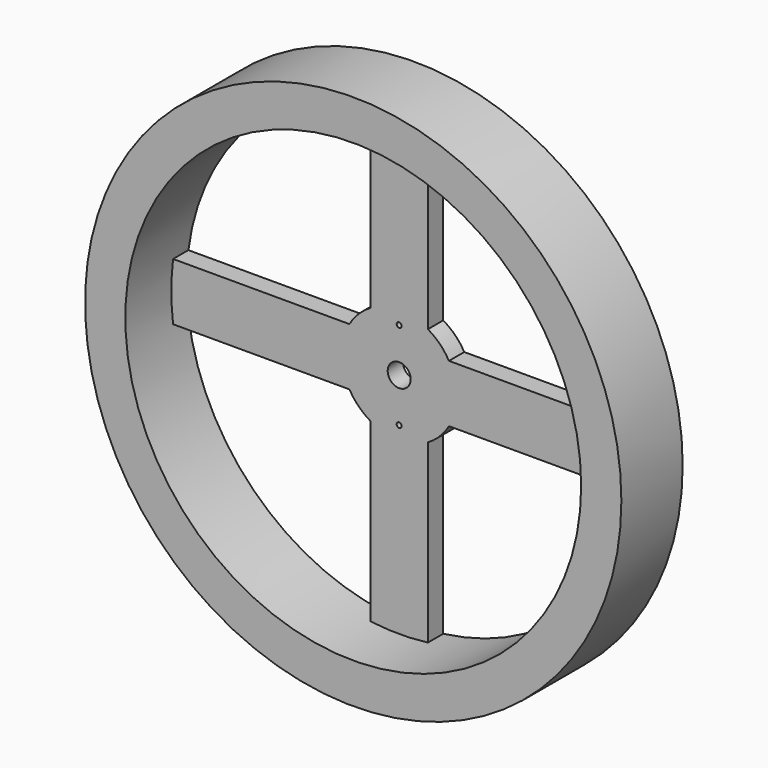
from build123d import *

# Parameters (mm, degrees)
F2_R      = 70
F2_R_2    = 59.5
F3_DEPTH  = 20
F4_R      = 15
F5_DEPTH  = 5
F6_W      = 130
F6_H      = 15
F7_DEPTH  = 5
F8_W      = 15
F8_H      = 130
F9_DEPTH  = 5
F11_R     = 3
F12_DEPTH = 5.001
F14_DEPTH = 25


with BuildPart() as f3:
    # F2 (on Front) → F3 (new body)
    with BuildSketch(Plane.XZ):
        Circle(F2_R)
        Circle(F2_R_2, mode=Mode.SUBTRACT)
        Circle(F2_R)
        Circle(F2_R_2, mode=Mode.SUBTRACT)
    extrude(amount=F3_DEPTH)


with BuildPart() as f5:
    # F4 (on Front) → F5 (new body)
    with BuildSketch(Plane.XZ):
        Circle(F4_R)
    extrude(amount=F5_DEPTH)


with BuildPart() as f7:
    # F6 (on Front) → F7 (new body)
    with BuildSketch(Plane.XZ):
        Rectangle(F6_W, F6_H)
    extrude(amount=F7_DEPTH)


with BuildPart() as f9:
    # F8 (on Front) → F9 (new body)
    with BuildSketch(Plane.XZ):
        Rectangle(F8_W, F8_H)
    extrude(amount=F9_DEPTH)


with BuildPart() as f3_1:
    add(f3.part)

    # F10: union F5, F7, F9
    add(f5.part)
    add(f7.part)
    add(f9.part)

    # F11 (on face) → F12 (cut, through all)
    with BuildSketch(Plane.XZ.offset(5)):
        Circle(F11_R)
    extrude(amount=-F12_DEPTH, mode=Mode.SUBTRACT)

    # F13 (on Front) → F14 (cut)
    with BuildSketch(Plane.XZ):
        with BuildLine():
            ThreePointArc((0.65, -11.5), (0.4596194078, -11.0403805922), (0, -10.85))
            ThreePointArc((0, -10.85), (-0.4596194078, -11.9596194078), (0.65, -11.5))
        make_face()
        with BuildLine():
            ThreePointArc((0.65, 11.5), (-0.4596194078, 11.9596194078), (0, 10.85))
            ThreePointArc((0, 10.85), (0.4596194078, 11.0403805922), (0.65, 11.5))
        make_face()
    extrude(amount=F14_DEPTH, mode=Mode.SUBTRACT)


solid = f3_1.part
